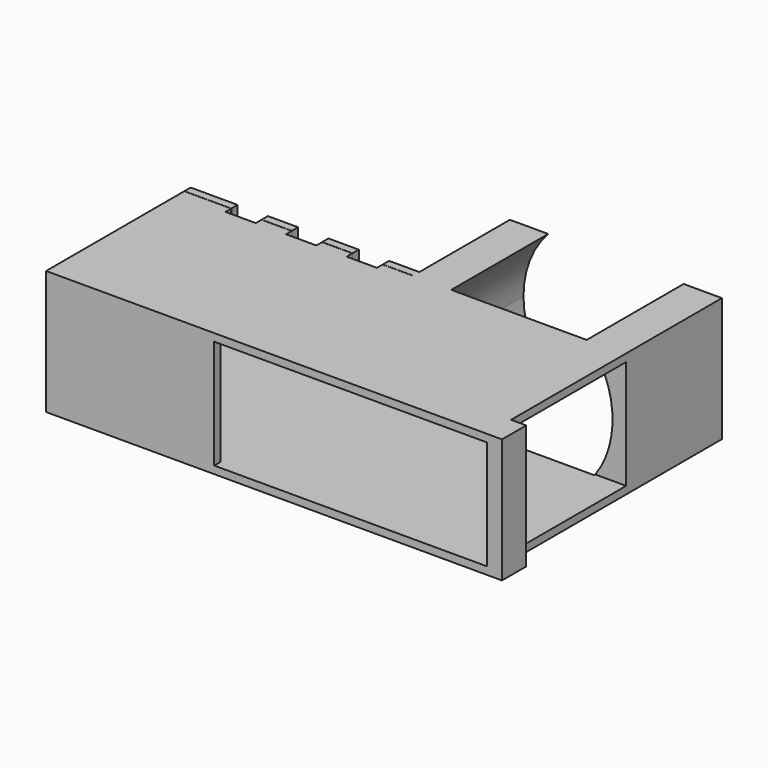
from build123d import *

# Parameters (mm, degrees)
F0_W      = 14
F0_H      = 14
F1_DEPTH  = 8.2
F2_W      = 18
F2_H      = 7.2
F3_DEPTH  = 11.5
F5_DEPTH  = 14
F6_W      = 10.9
F6_H      = 7.2
F7_DEPTH  = 25
F8_W      = 15.1089467108
F8_H      = 7.5144236907
F9_DEPTH  = 8.2
F10_DEPTH = 7
F11_W     = 2
F11_H     = 8.2
F12_DEPTH = 1
F13_DEPTH = 6
F14_W     = 2
F14_H     = 7.2
F14_H_2   = 0.5
F15_DEPTH = 1


with BuildPart() as f1:
    # F0 (on Top) → F1 (new body)
    with BuildSketch(Plane.XY):
        Polygon((0, 11.4), (0, 0), (29.1, 0), (29.1, 11.4), (15.1, 11.4), align=None)
        with Locations((22.1, 18.4)):
            Rectangle(F0_W, F0_H)
    extrude(amount=F1_DEPTH)

    # F2 (on face) → F3 (cut)
    with BuildSketch(Plane.XZ):
        with Locations((20.1, 4.1)):
            Rectangle(F2_W, F2_H)
    extrude(amount=-F3_DEPTH, mode=Mode.SUBTRACT)

    # F4 (on face) → F5 (cut)
    with BuildSketch(Plane(origin=(0, 25.4, 0), x_dir=(-1, 0, 0), z_dir=(0, 1, 0))):
        with BuildLine():
            ThreePointArc((-17.5384761318, 0), (-16.3975752703, 1.8838162123), (-16, 4.05))
            ThreePointArc((-16, 4.05), (-16.4219059983, 6.2791811295), (-17.6292618059, 8.2))
            Line((-17.6292618059, 8.2), (-26.5707381941, 8.2))
            ThreePointArc((-26.5707381941, 8.2), (-28.1996261763, 4.1175315456), (-26.6615238682, 0))
            Line((-26.6615238682, 0), (-17.5384761318, 0))
        make_face()
    extrude(amount=-F5_DEPTH, mode=Mode.SUBTRACT)

    # F6 (on face) → F7 (cut)
    with BuildSketch(Plane(origin=(0, 0, 0), x_dir=(0, -1, 0), z_dir=(-1, 0, 0))):
        with Locations((-5.95, 4.1)):
            Rectangle(F6_W, F6_H)
    extrude(amount=-F7_DEPTH, mode=Mode.SUBTRACT)

    # F8 (on Top) → F9 (join)
    with BuildSketch(Plane.XY):
        with Locations((7.5544733554, 15.1720256545)):
            Rectangle(F8_W, F8_H)
        with Locations((7.5544733554, 15.1720256545)):
            Rectangle(F8_W, F8_H)
    extrude(amount=F9_DEPTH)

    # F10 (cut): a face of the model
    f10_faces = [f1.faces().sort_by_distance(p)[0] for p in [
        (7.55, 18.9292374998, 4.1),
    ]]
    extrude(f10_faces, amount=-F10_DEPTH, mode=Mode.SUBTRACT)

    # F11 (on face) → F12 (cut)
    with BuildSketch(Plane(origin=(0, 11.9292374998, 0), x_dir=(-1, 0, 0), z_dir=(0, 1, 0))):
        with Locations((-12.1, 4.1)):
            Rectangle(F11_W, F11_H)
        with Locations((-8.1, 4.1)):
            Rectangle(F11_W, F11_H)
        with Locations((-4.1, 4.1)):
            Rectangle(F11_W, F11_H)
    extrude(amount=-F12_DEPTH, mode=Mode.SUBTRACT)

    # F13 (cut): faces of the model
    f13_faces = [f1.faces().sort_by_distance(p)[0] for p in [
        (15.8748350473, 25.4, 4.1388807509),
        (28.3251649527, 25.4, 4.1388807509),
    ]]
    extrude(f13_faces, amount=-F13_DEPTH, mode=Mode.SUBTRACT)

    # F14 (on face) → F15 (join)
    with BuildSketch(Plane.YZ.offset(29.1)):
        with Locations((1, 4.1)):
            Rectangle(F14_W, F14_H)
        with Locations((1, 7.95)):
            Rectangle(F14_W, F14_H_2)
        with Locations((1, 0.25)):
            Rectangle(F14_W, F14_H_2)
    extrude(amount=F15_DEPTH)


solid = f1.part
